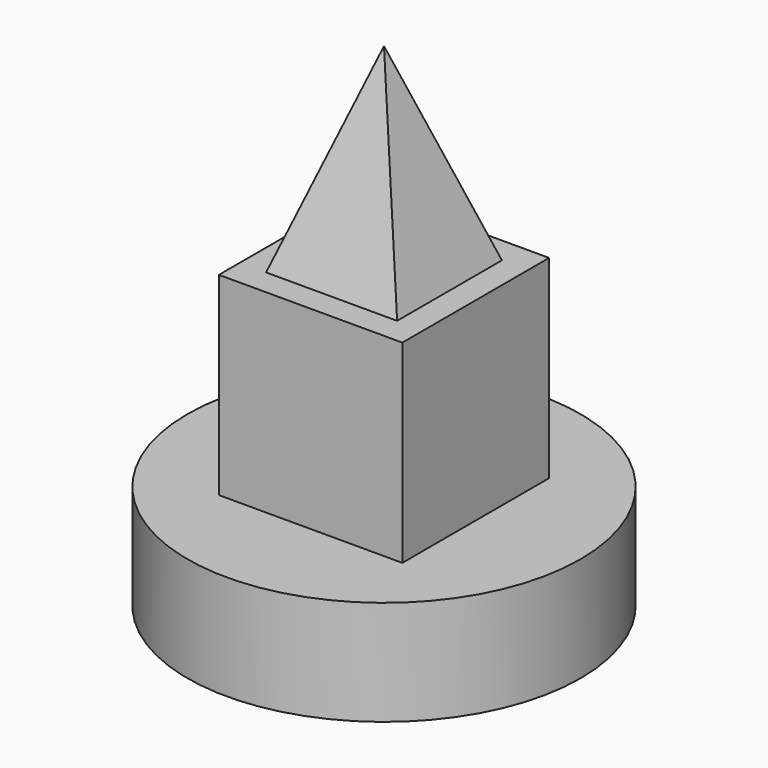
from build123d import *

# Parameters (mm, degrees)
F2_DEPTH = 17.5
F3_W     = 12.5
F3_H     = 25


with BuildPart() as f1:
    # F0 (on Front) → F1 (revolve)
    with BuildSketch(Plane.XZ):
        Polygon((0, 20), (0, 0), (37.5, 0), (37.5, 20), (17.5, 20), align=None)
    revolve(axis=Axis((0, 0, 47), (0, 0, -1)))

    # F0 (on Front) → F2 (join, symmetric)
    with BuildSketch(Plane.XZ):
        Polygon((0, 57), (0, 20), (17.5, 20), (17.5, 57), (12.5, 57), align=None)
    extrude(amount=F2_DEPTH, both=True)

    # F3 (on face) → F6 section 0
    with BuildSketch(Plane.XY.offset(57), mode=Mode.PRIVATE) as f6_s0:
        with Locations((6.25, 0)):
            Rectangle(F3_W, F3_H)
    loft([f6_s0.sketch, Vertex(0, 0, 94)])

    # F7: F1 across plane


with BuildPart() as f1_1:
    add(f1.part)
    add(f1.part.mirror(Plane.YZ))


solid = f1_1.part
